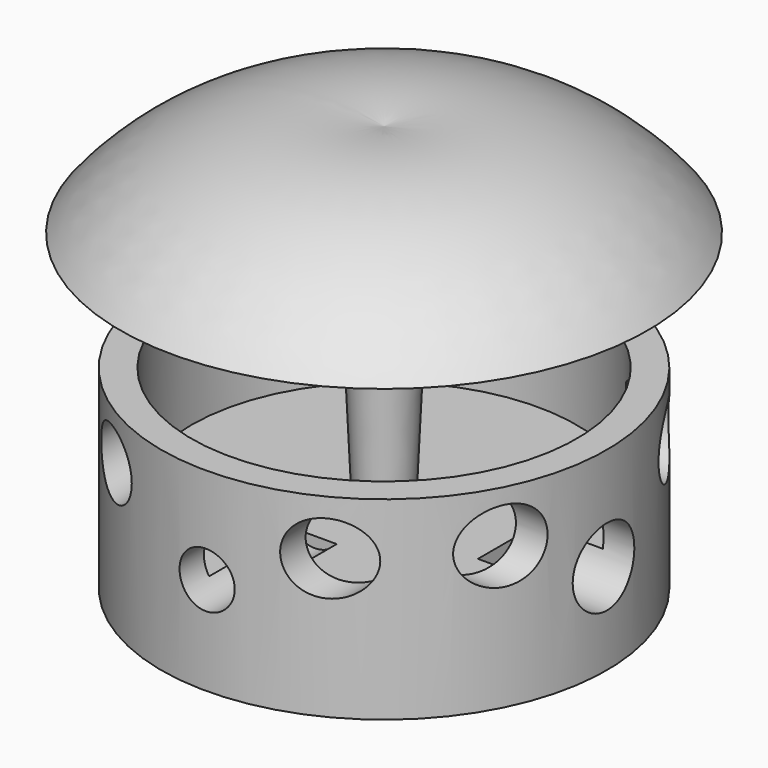
from build123d import *

# Parameters (mm, degrees)
F3_R     = 5.665286
F3_R_2   = 7.253656
F3_R_3   = 6.669881
F4_DEPTH = 127
F6_R     = 7.910511
F6_R_2   = 7.431564
F6_R_3   = 6.884056
F7_DEPTH = 25.4


with BuildPart() as f1:
    # F0 (on Front) → F1 (revolve)
    with BuildSketch(Plane.XZ):
        with BuildLine():
            Line((-45.795509, 0), (-45.795509, -23.250027))
            Line((-45.795509, -23.250027), (-45.795509, -39.877315))
            Line((-45.795509, -39.877315), (0, -39.877315))
            Line((0, -39.877315), (0, -23.250027))
            Line((0, -23.250027), (0, 43.671444))
            ThreePointArc((0, 43.671444), (-29.841198, 41.661526), (-54.250058, 24.377299))
            Line((-54.250058, 24.377299), (-31.70458, 29.168213))
            Line((-31.70458, 29.168213), (-7.62, 30.238641))
            Line((-7.62, 30.238641), (-5.242722, -23.250027))
            Line((-5.242722, -23.250027), (-39.5955, -23.250027))
            Line((-39.5955, -23.250027), (-39.5955, 0))
            Line((-39.5955, 0), (-45.795509, 0))
        make_face()
    revolve(axis=Axis((0, 0, -2.677274), (0, 0, -1)))

    # F3 (on offset) → F4 (cut)
    with BuildSketch(Plane.XZ.offset(17.78)):
        with Locations((0, -19.800454)):
            Circle(F3_R)
        with Locations((20.878028, -11.179848)):
            Circle(F3_R_2)
        with Locations((-24.91894, -9.832879)):
            Circle(F3_R_3)
    extrude(amount=F4_DEPTH, mode=Mode.SUBTRACT)

    # F6 (on offset) → F7 (cut)
    with BuildSketch(Plane.YZ.offset(25.4)):
        with Locations((0, -21.147424)):
            Circle(F6_R)
        with Locations((-20.339243, -10.641061)):
            Circle(F6_R_2)
        with Locations((24.649547, -10.641061)):
            Circle(F6_R_3)
    extrude(amount=F7_DEPTH, mode=Mode.SUBTRACT)


solid = f1.part
